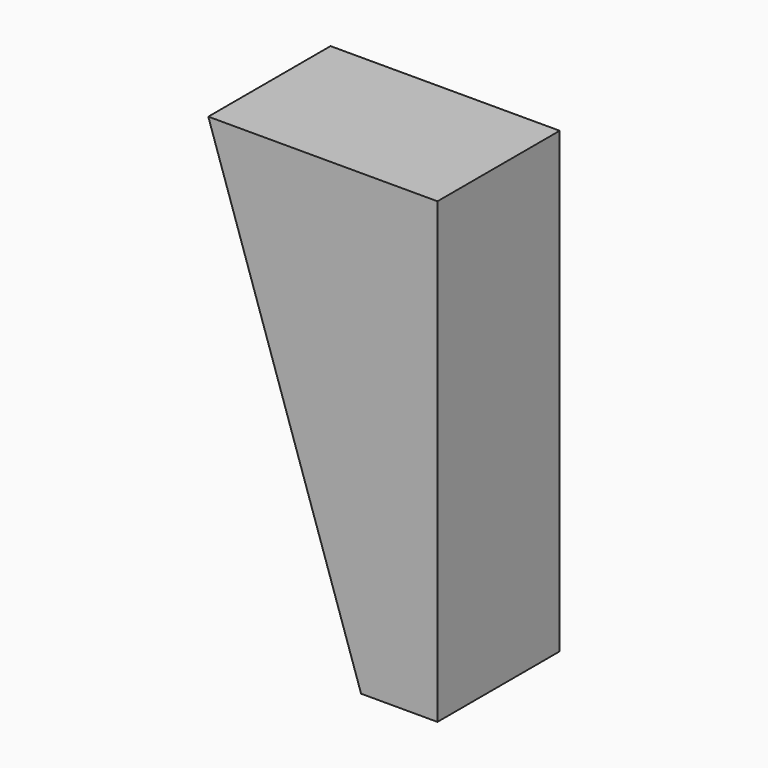
from build123d import *

# Parameters (mm, degrees)
PAD_DEPTH = 5


with BuildPart() as part:
    # Sketch → Pad (new body, symmetric)
    with BuildSketch(Plane.XZ):
        Polygon((0, 0), (0, -30), (-5, -30), (-15, 0), align=None)
    extrude(amount=PAD_DEPTH, both=True)


solid = part.part
